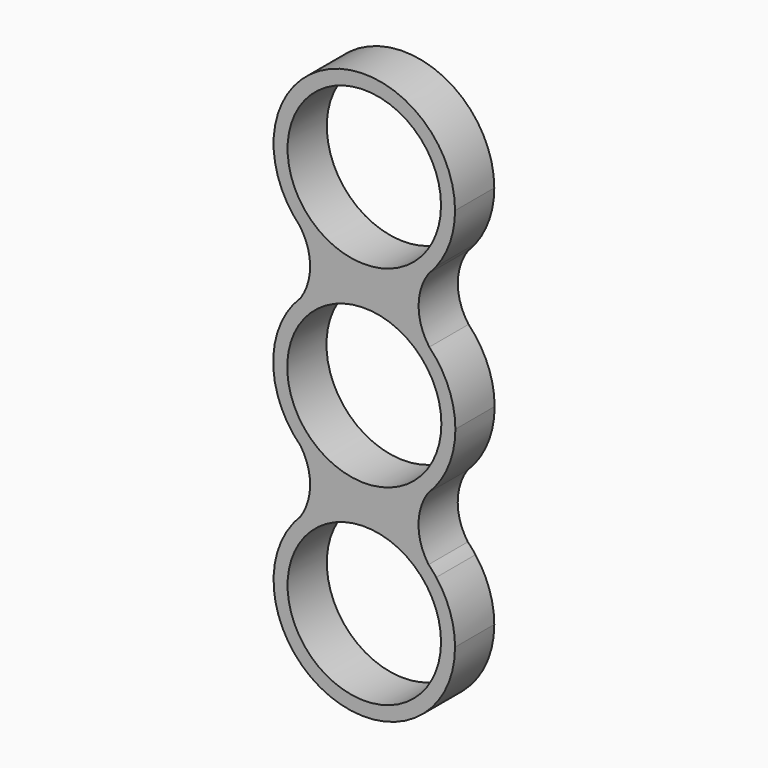
from build123d import *

# Parameters (mm, degrees)
F0_R     = 11
F0_R_2   = 10.95
F1_DEPTH = 7


with BuildPart() as f1:
    # F0 (on Front) → F1 (new body)
    with BuildSketch(Plane.XZ):
        with BuildLine():
            ThreePointArc((9.079472, -9.303934), (11.97984, -5.048112), (13, 0))
            ThreePointArc((13, 0), (12.033855, 4.917961), (9.279025, 9.104927))
            ThreePointArc((9.279025, 9.104927), (0.140912, 12.999236), (-9.079472, 9.303934))
            ThreePointArc((-9.079472, 9.303934), (-13, 0), (-9.079472, -9.303934))
            ThreePointArc((-9.079472, -9.303934), (0, -13), (9.079472, -9.303934))
        make_face()
        Circle(F0_R, mode=Mode.SUBTRACT)
        with BuildLine():
            ThreePointArc((-9.079472, 9.303934), (0.140912, 12.999236), (9.279025, 9.104927))
            ThreePointArc((9.279025, 9.104927), (7.748031, 13.701905), (9.191158, 18.32722))
            ThreePointArc((9.191158, 18.32722), (-0.088011, 14.500299), (-9.314307, 18.45299))
            ThreePointArc((-9.314307, 18.45299), (-7.735521, 13.915972), (-9.079472, 9.303934))
        make_face()
        with BuildLine():
            ThreePointArc((9.173578, -18.259543), (7.733358, -13.796378), (9.079472, -9.303934))
            ThreePointArc((9.079472, -9.303934), (0, -13), (-9.079472, -9.303934))
            ThreePointArc((-9.079472, -9.303934), (-7.733358, -13.796378), (-9.173578, -18.259543))
            ThreePointArc((-9.173578, -18.259543), (0, -14.45), (9.173578, -18.259543))
        make_face()
        with BuildLine():
            ThreePointArc((10.26943, 19.560684), (9.698205, 18.972004), (9.191158, 18.32722))
            ThreePointArc((9.191158, 18.32722), (9.74982, 18.926883), (10.26943, 19.560684))
        make_face()
        with BuildLine():
            ThreePointArc((-9.314307, 18.45299), (-0.088011, 14.500299), (9.191158, 18.32722))
            ThreePointArc((9.191158, 18.32722), (9.698205, 18.972004), (10.26943, 19.560684))
            ThreePointArc((10.26943, 19.560684), (12.261558, 23.283864), (12.95, 27.45))
            ThreePointArc((12.95, 27.45), (-4.283246, 39.671142), (-10.116611, 19.365652))
            ThreePointArc((-10.116611, 19.365652), (-9.697869, 18.924783), (-9.314307, 18.45299))
        make_face()
        with Locations((0, 27.45)):
            Circle(F0_R_2, mode=Mode.SUBTRACT)
        with BuildLine():
            ThreePointArc((10.26943, -19.510684), (9.688458, -18.914058), (9.173578, -18.259543))
            ThreePointArc((9.173578, -18.259543), (0, -14.45), (-9.173578, -18.259543))
            ThreePointArc((-9.173578, -18.259543), (-9.688458, -18.914058), (-10.26943, -19.510684))
            ThreePointArc((-10.26943, -19.510684), (-4.166136, -39.661558), (12.95, -27.4))
            ThreePointArc((12.95, -27.4), (12.261558, -23.233864), (10.26943, -19.510684))
        make_face()
        with Locations((0, -27.4)):
            Circle(F0_R_2, mode=Mode.SUBTRACT)
        with BuildLine():
            ThreePointArc((10.26943, -19.510684), (9.741611, -18.867502), (9.173578, -18.259543))
            ThreePointArc((9.173578, -18.259543), (9.688458, -18.914058), (10.26943, -19.510684))
        make_face()
        with BuildLine():
            ThreePointArc((-10.116611, 19.365652), (-9.72617, 18.899905), (-9.314307, 18.45299))
            ThreePointArc((-9.314307, 18.45299), (-9.697869, 18.924783), (-10.116611, 19.365652))
        make_face()
        with BuildLine():
            ThreePointArc((-10.26943, -19.510684), (-9.688458, -18.914058), (-9.173578, -18.259543))
            ThreePointArc((-9.173578, -18.259543), (-9.741611, -18.867502), (-10.26943, -19.510684))
        make_face()
    extrude(amount=F1_DEPTH)


solid = f1.part
